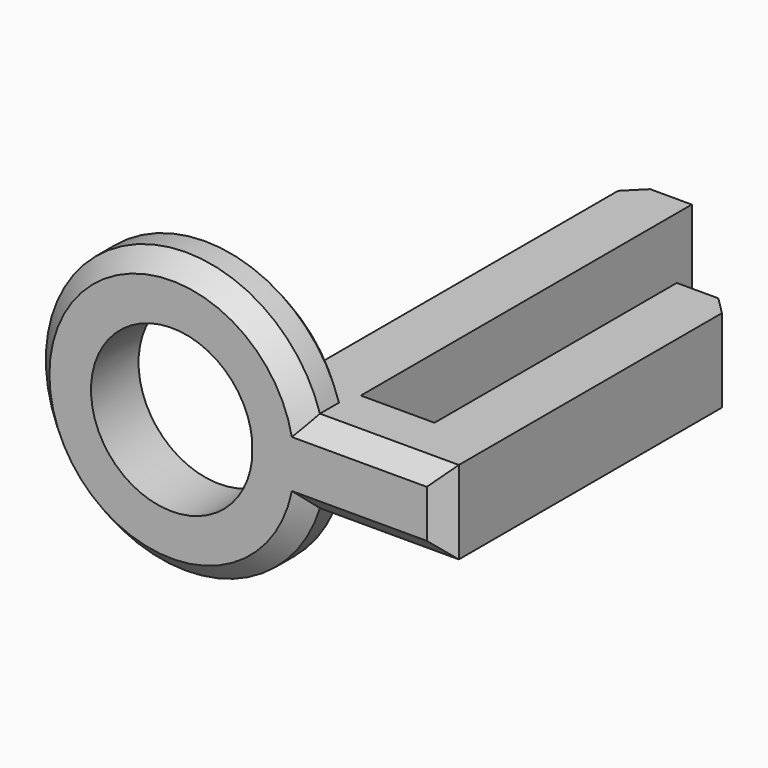
from build123d import *

# Parameters (mm, degrees)
F2_DEPTH = 3.5
F1_R     = 11.798714
F1_R_2   = 6.798714
F3_DEPTH = 5
F4_SIZE  = 1.5


with BuildPart() as f2:
    # F0 (on Top) → F2 (new body, symmetric)
    with BuildSketch(Plane.XY):
        Polygon((5, 40), (0, 40), (0, 0), (16.2, 0), (16.2, 30.672841), (11.2, 30.672841), (11.2, 5.187817), (5, 5.187817), align=None)
    extrude(amount=F2_DEPTH, both=True)

    # F1 (on Front) → F3 (join)
    with BuildSketch(Plane.XZ):
        with Locations((-6.755837, 0)):
            Circle(F1_R)
        with Locations((-6.755837, 0)):
            Circle(F1_R_2, mode=Mode.SUBTRACT)
    extrude(amount=-F3_DEPTH)

    # F4
    f4_edges = [f2.edges().sort_by_distance(p)[0] for p in [
        (-18.554551, 0, 0),
        (-18.554551, 5, 0),
        (16.2, 0, 0),
        (10.3559, 0, -3.5),
        (10.3559, 0, 3.5),
        (16.2, 30.672841, 0),
        (0, 40, 0),
    ]]
    chamfer(f4_edges, length=F4_SIZE)


solid = f2.part
